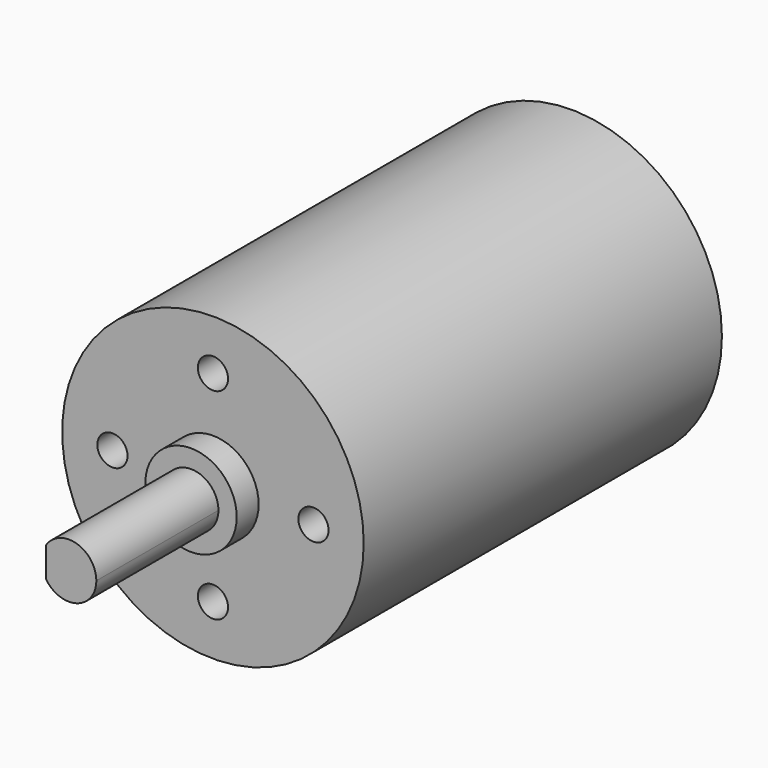
from build123d import *

# Parameters (mm, degrees)
F0_R     = 16.5
F1_DEPTH = 31.5
F2_DEPTH = 17.5
F4_DEPTH = 19.7
F3_R     = 5
F5_DEPTH = 3
F6_D     = 3.3
F6_DEPTH = 6
F6_TIP   = 0.9914200214


with BuildPart() as f1:
    # F0 (on Front) → F1 (new body)
    with BuildSketch(Plane.XZ):
        Circle(F0_R)
    extrude(amount=F1_DEPTH)

    # F2 (add): a face of the model
    f2_faces = [f1.faces().sort_by_distance(p)[0] for p in [
        (0, 0, 0),
    ]]
    extrude(f2_faces, amount=F2_DEPTH)

    # F3 (on face) → F4 (join)
    with BuildSketch(Plane.XZ.offset(31.5)):
        with BuildLine():
            ThreePointArc((-2.5, -1.6583123952), (0.8660254038, -2.8722813233), (3, 0))
            ThreePointArc((3, 0), (0.8660254038, 2.8722813233), (-2.5, 1.6583123952))
            Line((-2.5, 1.6583123952), (-2.5, -1.6583123952))
        make_face()
    extrude(amount=F4_DEPTH)

    # F3 (on face) → F5 (join)
    with BuildSketch(Plane.XZ.offset(31.5)):
        Circle(F3_R)
        with BuildLine():
            ThreePointArc((-2.5, 1.6583123952), (0.8660254038, 2.8722813233), (3, 0))
            ThreePointArc((3, 0), (0.8660254038, -2.8722813233), (-2.5, -1.6583123952))
            ThreePointArc((-2.5, -1.6583123952), (-3, 0), (-2.5, 1.6583123952))
        make_face(mode=Mode.SUBTRACT)
        with BuildLine():
            Line((-2.5, -1.6583123952), (-2.5, 1.6583123952))
            ThreePointArc((-2.5, 1.6583123952), (-3, 0), (-2.5, -1.6583123952))
        make_face()
    extrude(amount=F5_DEPTH)

    # F6
    with Locations(Plane.XZ.offset(31.5)):
        with Locations((11, 0), (0, -11), (0, 11), (-11, 0)):
            Hole(F6_D / 2, depth=F6_DEPTH)
            with Locations((0, 0, -(F6_DEPTH + F6_TIP / 2))):  # 118° drill point
                Cone(0, F6_D / 2, F6_TIP, mode=Mode.SUBTRACT)


solid = f1.part
